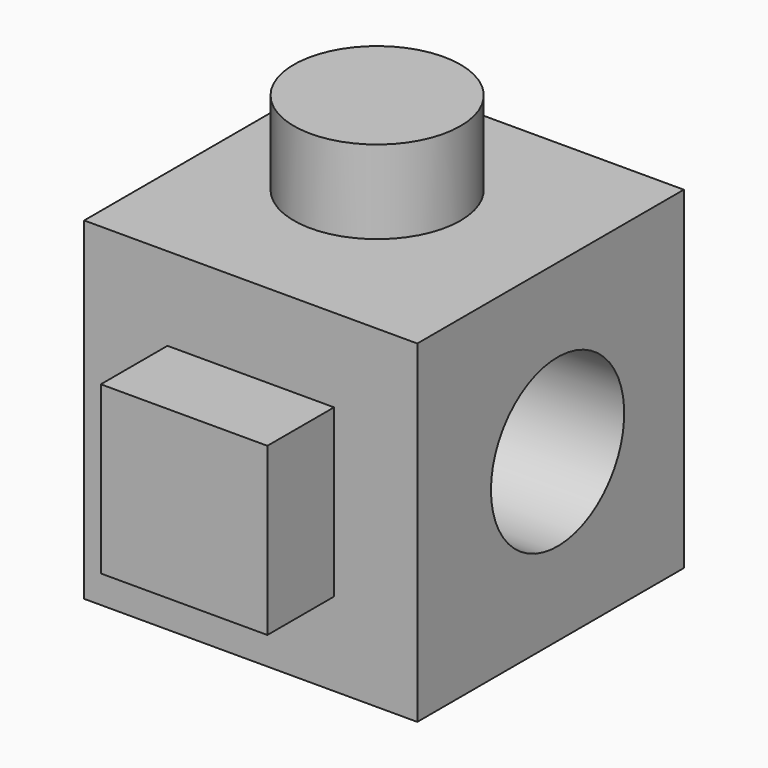
from build123d import *

# Parameters (mm, degrees)
F0_W     = 50.8
F0_H     = 50.8
F1_DEPTH = 50.8
F2_W     = 25.4
F2_H     = 25.4
F3_DEPTH = 12.7
F4_R     = 12.7
F5_DEPTH = 50.8
F6_R     = 12.7
F7_DEPTH = 12.7


with BuildPart() as f1:
    # F0 (on Front) → F1 (new body)
    with BuildSketch(Plane.XZ):
        with Locations((-25.4, 25.4)):
            Rectangle(F0_W, F0_H)
    extrude(amount=F1_DEPTH)

    # F2 (on face) → F3 (join)
    with BuildSketch(Plane.XZ.offset(50.8)):
        with Locations((-25.4, 25.4)):
            Rectangle(F2_W, F2_H)
    extrude(amount=F3_DEPTH)

    # F4 (on face) → F5 (cut)
    with BuildSketch(Plane(origin=(-50.8, 0, 0), x_dir=(0, -1, 0), z_dir=(-1, 0, 0))):
        with Locations((24.063157, 25.4)):
            Circle(F4_R)
    extrude(amount=-F5_DEPTH, mode=Mode.SUBTRACT)

    # F6 (on face) → F7 (join)
    with BuildSketch(Plane.XY.offset(50.8)):
        with Locations((-28.474737, -22.860002)):
            Circle(F6_R)
    extrude(amount=F7_DEPTH)


solid = f1.part
